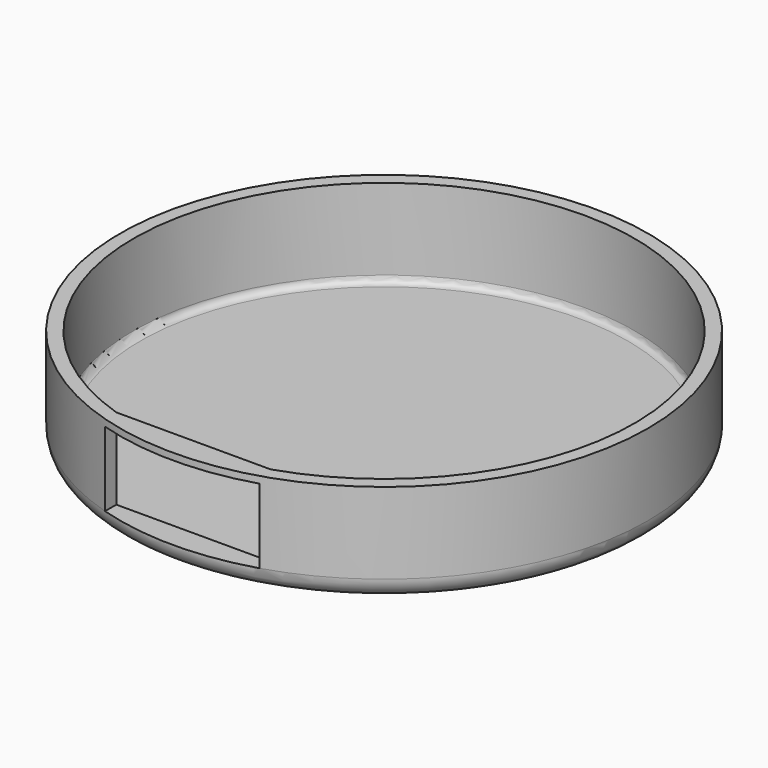
from build123d import *

# Parameters (mm, degrees)
F0_R     = 39
F1_DEPTH = 15
F2_R     = 3
F3_T     = -2
F5_DEPTH = 13
F6_W     = 22.8
F6_H     = 11
F7_DEPTH = 3.801


with BuildPart() as f1:
    # F0 (on Top) → F1 (new body)
    with BuildSketch(Plane.XY):
        Circle(F0_R)
    extrude(amount=F1_DEPTH)

    # F2
    f2_edges = [f1.edges().sort_by_distance(p)[0] for p in [
        (-39, 0, 0),
    ]]
    fillet(f2_edges, radius=F2_R)

    # F3
    f3_openings = [f1.faces().sort_by_distance(p)[0] for p in [
        (0, 0, 15),
    ]]
    offset(amount=F3_T, openings=f3_openings)

    # F4 (on face) → F5 (join, through all)
    with BuildSketch(Plane.XY.offset(15)):
        with BuildLine():
            Line((11.4, -35.2), (-11.4, -35.2))
            ThreePointArc((-11.4, -35.2), (0, -37), (11.4, -35.2))
        make_face()
    extrude(amount=-F5_DEPTH)

    # F6 (on face) → F7 (cut, through all)
    with BuildSketch(Plane(origin=(0, -35.2, 0), x_dir=(-1, 0, 0), z_dir=(0, 1, 0))):
        with Locations((0, 8.5)):
            Rectangle(F6_W, F6_H)
    extrude(amount=-F7_DEPTH, mode=Mode.SUBTRACT)


solid = f1.part
